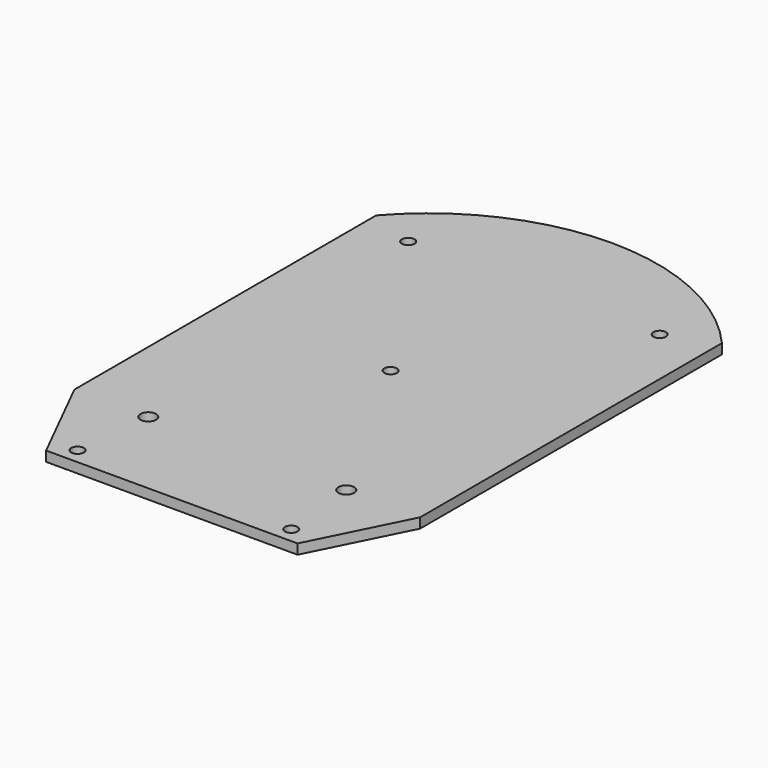
from build123d import *

# Parameters (mm, degrees)
F0_R     = 2
F0_R_2   = 2.5
F1_DEPTH = 3.175


with BuildPart() as f1:
    # F0 (on Top) → F1 (new body)
    with BuildSketch(Plane.XY):
        with BuildLine():
            Line((-55, -57.5), (-40, -87.5))
            Line((-40, -87.5), (40, -87.5))
            Line((40, -87.5), (55, -57.5))
            Line((55, -57.5), (55, 62.5))
            ThreePointArc((55, 62.5), (0, 87.5), (-55, 62.5))
            Line((-55, 62.5), (-55, -57.5))
        make_face()
        with Locations((-34, -82.5)):
            Circle(F0_R, mode=Mode.SUBTRACT)
        with Locations((-31.4923, -57.5)):
            Circle(F0_R_2, mode=Mode.SUBTRACT)
        with Locations((34, -82.5)):
            Circle(F0_R, mode=Mode.SUBTRACT)
        with Locations((31.4923, -57.5)):
            Circle(F0_R_2, mode=Mode.SUBTRACT)
        with Locations((0, -0.5)):
            Circle(F0_R, mode=Mode.SUBTRACT)
        with Locations((-40, 56.5)):
            Circle(F0_R, mode=Mode.SUBTRACT)
        with Locations((40, 56.5)):
            Circle(F0_R, mode=Mode.SUBTRACT)
    extrude(amount=F1_DEPTH)


solid = f1.part
